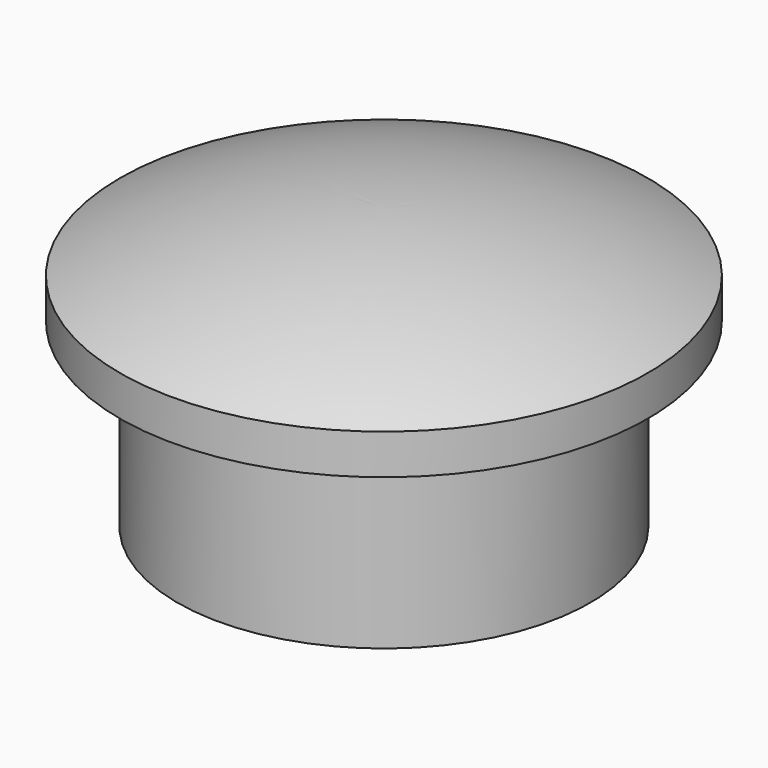
from build123d import *


with BuildPart() as f1:
    # F0 (on Front) → F1 (revolve)
    with BuildSketch(Plane.XZ):
        Polygon((-13.0683, 0), (0, 0), (0, 13.97), (-16.7005, 13.97), (-16.7005, 11.43), (-13.0683, 11.43), align=None)
        with BuildLine():
            Line((-16.7005, 13.97), (0, 13.97))
            Line((0, 13.97), (0, 17.78))
            ThreePointArc((0, 17.78), (-8.564794, 16.815419), (-16.7005, 13.97))
        make_face()
    revolve(axis=Axis((0, 0, 6.985), (0, 0, -1)))


solid = f1.part
